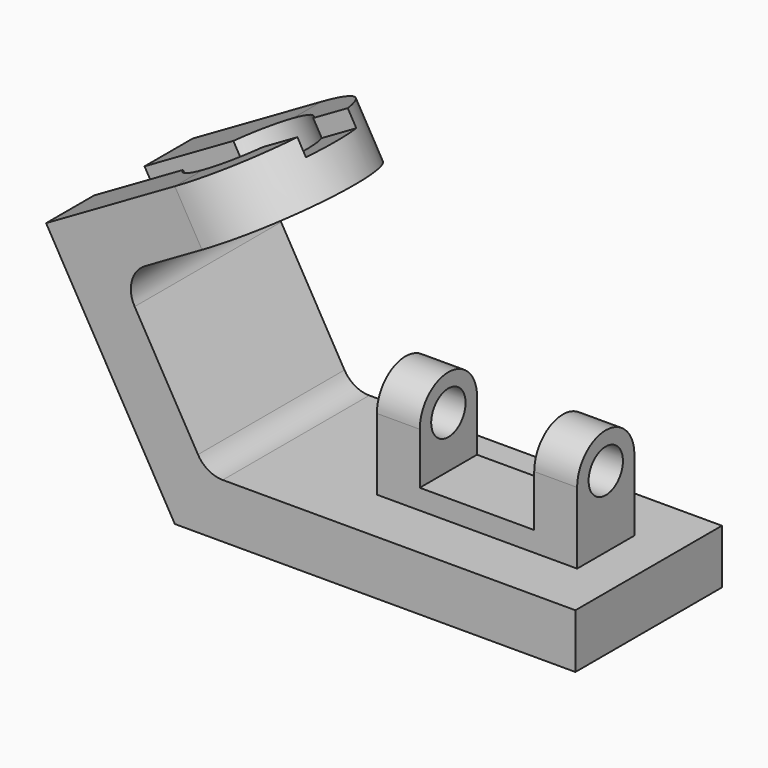
from build123d import *

# Parameters (mm, degrees)
F1_DEPTH  = 64
F3_DEPTH  = 19
F4_R      = 10
F5_DEPTH  = 19
F6_R      = 19.5
F7_DEPTH  = 12
F8_W      = 83.9615242271
F8_H      = 22
F9_DEPTH  = 6
F10_W     = 22
F10_H     = 56
F11_DEPTH = 6
F12_W     = 70
F12_H     = 25
F13_DEPTH = 25
F15_DEPTH = 70
F16_R     = 7.5
F17_DEPTH = 70
F18_W     = 40
F18_H     = 40.1206766963
F19_DEPTH = 44.501


with BuildPart() as f1:
    # F0 (on Front) → F1 (new body)
    with BuildSketch(Plane.XZ):
        with BuildLine():
            Line((-45, 77.9422863406), (0, 0))
            Line((0, 0), (140, 0))
            Line((140, 0), (140, 19))
            Line((140, 19), (16.7431578065, 19))
            ThreePointArc((16.7431578065, 19), (11.7431578065, 20.3397459622), (8.0829037687, 24))
            Line((8.0829037687, 24), (-14.0455173281, 62.3275496309))
            ThreePointArc((-14.0455173281, 62.3275496309), (-15.0445215531, 69.9157400819), (-10.3852632903, 75.9878036687))
            Line((-10.3852632903, 75.9878036687), (9.5, 87.4685657822))
            Line((9.5, 87.4685657822), (0, 103.9230484541))
            Line((0, 103.9230484541), (-45, 77.9422863406))
        make_face()
    extrude(amount=-F1_DEPTH)

    # F2 (on face) → F3 (join)
    with BuildSketch(Plane(origin=(-45, 0, 77.9422863406), x_dir=(0.8660254038, 0, 0.5), z_dir=(-0.5, 0, 0.8660254038))):
        with BuildLine():
            Line((51.9615242271, 64), (51.9615242271, 0))
            ThreePointArc((51.9615242271, 0), (83.9615242271, 32), (51.9615242271, 64))
        make_face()
    extrude(amount=-F3_DEPTH)

    # F4 (on face) → F5 (cut)
    with BuildSketch(Plane(origin=(-45, 0, 77.9422863406), x_dir=(0.8660254038, 0, 0.5), z_dir=(-0.5, 0, 0.8660254038))):
        with Locations((51.9615242271, 32)):
            Circle(F4_R)
    extrude(amount=-F5_DEPTH, mode=Mode.SUBTRACT)

    # F6 (on face) → F7 (cut)
    with BuildSketch(Plane(origin=(-45, 0, 77.9422863406), x_dir=(0.8660254038, 0, 0.5), z_dir=(-0.5, 0, 0.8660254038))):
        with Locations((51.9615242271, 32)):
            Circle(F6_R)
    extrude(amount=-F7_DEPTH, mode=Mode.SUBTRACT)

    # F8 (on face) → F9 (cut)
    with BuildSketch(Plane(origin=(-45, 0, 77.9422863406), x_dir=(0.8660254038, 0, 0.5), z_dir=(-0.5, 0, 0.8660254038))):
        with Locations((41.9807621135, 32)):
            Rectangle(F8_W, F8_H)
    extrude(amount=-F9_DEPTH, mode=Mode.SUBTRACT)

    # F10 (on face) → F11 (cut)
    with BuildSketch(Plane(origin=(0, 0, 0), x_dir=(0, -1, 0), z_dir=(-0.8660254038, 0, -0.5))):
        with Locations((-32, 62)):
            Rectangle(F10_W, F10_H)
    extrude(amount=-F11_DEPTH, mode=Mode.SUBTRACT)

    # F12 (on face) → F13 (join)
    with BuildSketch(Plane.XY.offset(19)):
        with Locations((90, 32)):
            Rectangle(F12_W, F12_H)
    extrude(amount=F13_DEPTH)

    # F14 (on face) → F15 (join)
    with BuildSketch(Plane.YZ.offset(125)):
        with BuildLine():
            Line((19.5, 44), (44.5, 44))
            ThreePointArc((44.5, 44), (32, 56.5), (19.5, 44))
        make_face()
    extrude(amount=-F15_DEPTH)

    # F16 (on face) → F17 (cut)
    with BuildSketch(Plane.YZ.offset(125)):
        with Locations((32, 44)):
            Circle(F16_R)
    extrude(amount=-F17_DEPTH, mode=Mode.SUBTRACT)

    # F18 (on face) → F19 (cut, through all)
    with BuildSketch(Plane.XZ.offset(-19.5)):
        with Locations((90, 46.0603383482)):
            Rectangle(F18_W, F18_H)
    extrude(amount=-F19_DEPTH, mode=Mode.SUBTRACT)


solid = f1.part
